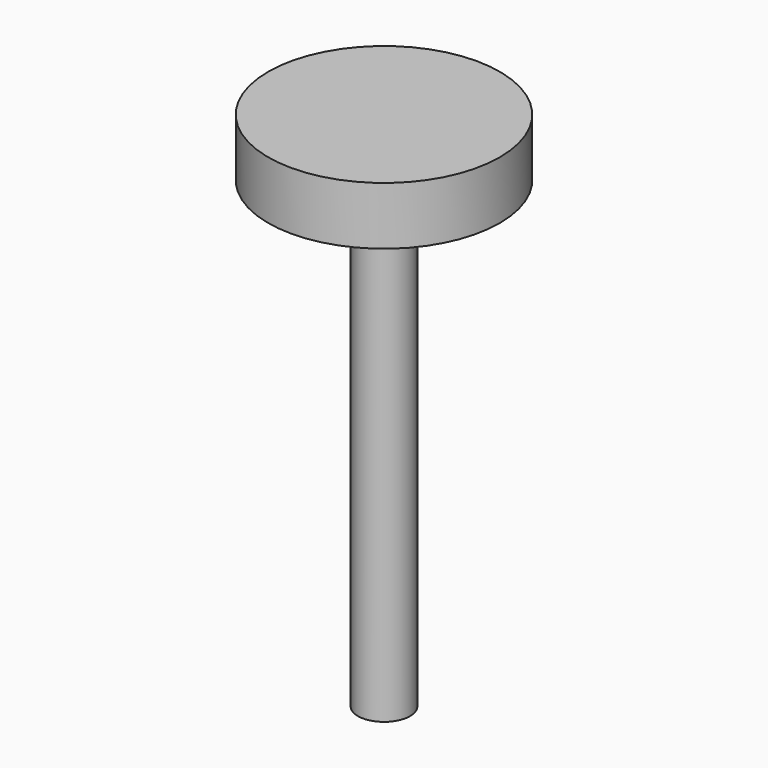
from build123d import *

# Parameters (mm, degrees)
F1_R     = 5.715
F2_DEPTH = 101.6
F3_R     = 25.4
F4_DEPTH = 12.7


with BuildPart() as f2:
    # F1 (on offset) → F2 (new body)
    with BuildSketch(Plane.XY.offset(50.8)):
        Circle(F1_R)
    extrude(amount=-F2_DEPTH)

    # F3 (on offset) → F4 (join)
    with BuildSketch(Plane.XY.offset(50.8)):
        Circle(F3_R)
    extrude(amount=F4_DEPTH)


solid = f2.part
